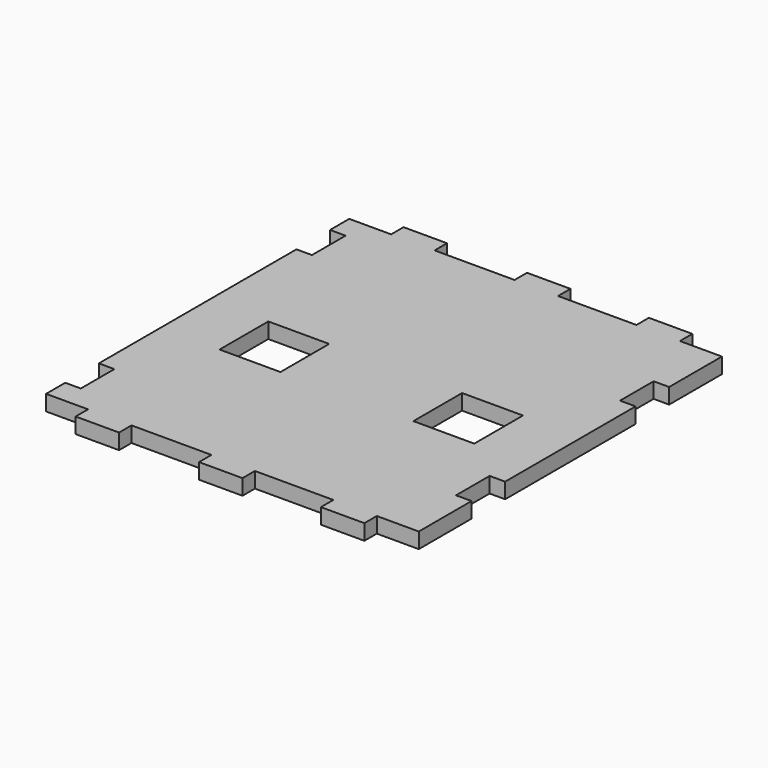
from build123d import *

# Parameters (mm, degrees)
F0_W     = 12.446
F0_H     = 12.446
F0_W_2   = 8.89
F0_H_2   = 3.175
F1_DEPTH = 3.175


with BuildPart() as f1:
    # F0 (on Top) → F1 (new body)
    with BuildSketch(Plane.XY):
        Polygon((-29.5275, 41.91), (-38.1, 41.91), (-38.1, 37.0078), (-34.925, 37.0078), (-34.925, 28.4226), (-38.1, 28.4226), (-38.1, -22.0726), (-34.925, -22.0726), (-34.925, -30.6578), (-38.1, -30.6578), (-38.1, -35.56), (-29.5275, -35.56), (-20.6375, -35.56), (-4.2926, -35.56), (4.5974, -35.56), (20.6248, -35.56), (29.1973, -35.56), (29.5148, -35.56), (38.1, -35.56), (38.1, -22.0726), (34.925, -22.0726), (34.925, -13.4874), (38.1, -13.4874), (38.1, 19.8374), (34.925, 19.8374), (34.925, 28.4226), (38.1, 28.4226), (38.1, 41.91), (29.5148, 41.91), (20.6248, 41.91), (4.5974, 41.91), (0.1524, 41.91), (-4.2926, 41.91), (-20.6375, 41.91), align=None)
        with Locations((-19.811853, -0.0762)):
            Rectangle(F0_W, F0_H, mode=Mode.SUBTRACT)
        with Locations((19.811853, -0.0762)):
            Rectangle(F0_W, F0_H, mode=Mode.SUBTRACT)
        with Locations((-25.0825, 43.4975)):
            Rectangle(F0_W_2, F0_H_2)
        Polygon((-4.2926, 45.085), (-4.2926, 41.91), (0.1524, 41.91), (4.5974, 41.91), (4.5974, 45.085), align=None)
        with Locations((25.0698, 43.4975)):
            Rectangle(F0_W_2, F0_H_2)
        with Locations((-25.0825, -37.1475)):
            Rectangle(F0_W_2, F0_H_2)
        with Locations((0.1524, -37.1475)):
            Rectangle(F0_W_2, F0_H_2)
        Polygon((29.1973, -35.56), (20.6248, -35.56), (20.6248, -38.735), (29.5148, -38.735), (29.5148, -35.56), align=None)
    extrude(amount=F1_DEPTH)


solid = f1.part
